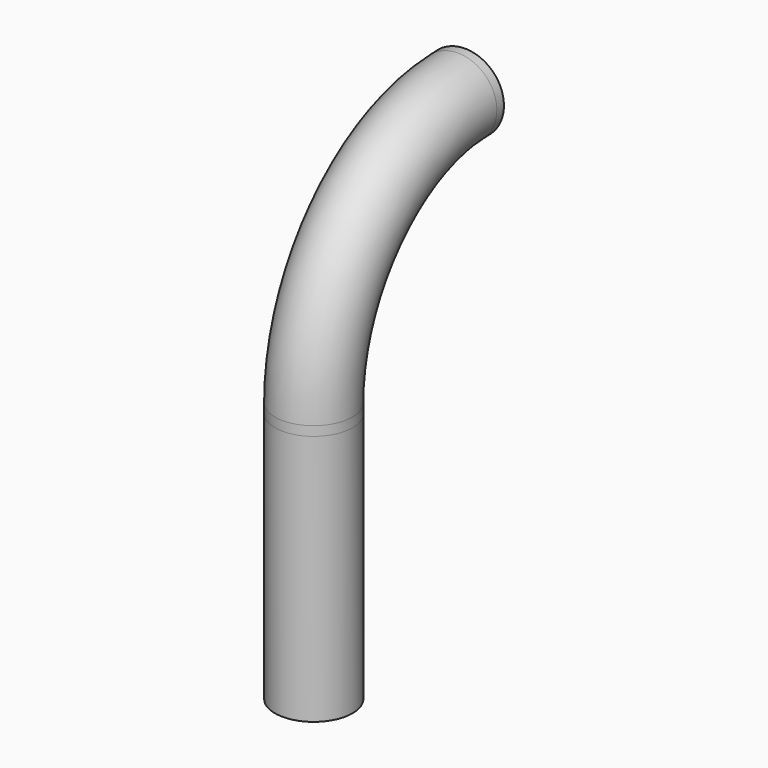
from build123d import *

# Parameters (mm, degrees)
F0_R        = 234.95
F0_R_2      = 228.6
F1_DEPTH    = 1524
F4_DEPTH    = 57.15
F4_FACE_R   = 234.95
F4_FACE_R_2 = 228.6
F5_ANGLE    = 90
F6_DEPTH    = 57.15


with BuildPart() as f1:
    # F0 (on Top) → F1 (new body)
    with BuildSketch(Plane.XY):
        Circle(F0_R)
        Circle(F0_R_2, mode=Mode.SUBTRACT)
    extrude(amount=F1_DEPTH)


with BuildPart() as f4:
    # F4 (new): a face of the model
    f4_faces = [f1.part.faces().sort_by_distance(p)[0] for p in [
        (-234.285461047, 0, 1524),
    ]]
    extrude(f4_faces, amount=F4_DEPTH)

    # F4_face (on face) → F5 (revolve)
    with BuildSketch(Plane.XY.offset(1581.15)):
        Circle(F4_FACE_R)
        Circle(F4_FACE_R_2, mode=Mode.SUBTRACT)
    revolve(axis=Axis((-93.0036529899, 1147.2213830948, 1581.15), (-0.9989714886, -0.0453427497, 0)), revolution_arc=F5_ANGLE)

    # F6 (add): a face of the model
    f6_faces = [f4.faces().sort_by_distance(p)[0] for p in [
        (-285.9596612882, 1138.4632192455, 2720.7853471814),
    ]]
    extrude(f6_faces, amount=F6_DEPTH)


solid = Compound([f1.part, f4.part])
